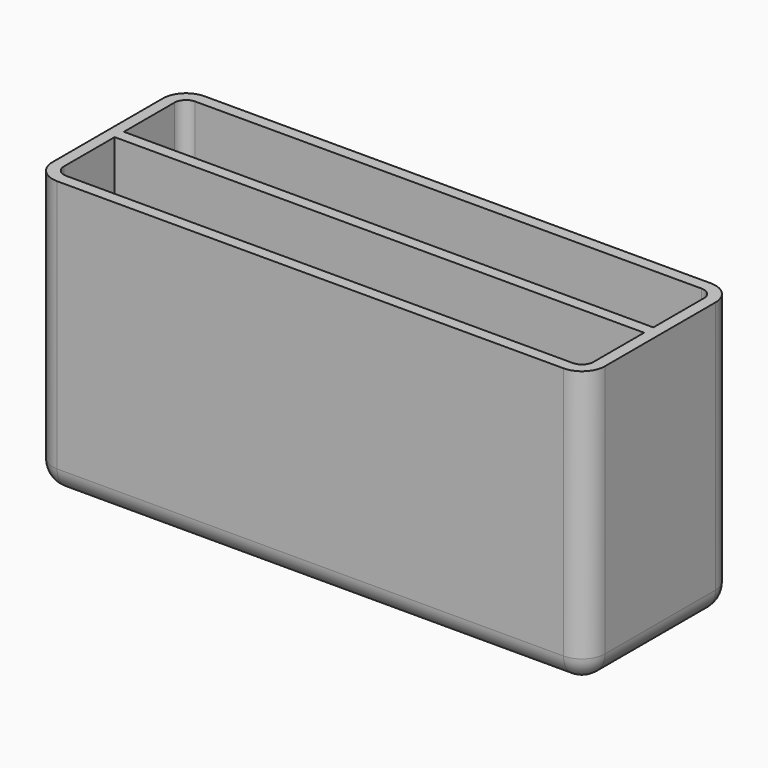
from build123d import *

# Parameters (mm, degrees)
SKETCH_W     = 1200
SKETCH_H     = 400
PAD_DEPTH    = 300
FILLET_R     = 50
THICKNESS_T  = -25
SKETCH001_W  = 1150
SKETCH001_H  = 25
PAD001_DEPTH = 575


with BuildPart() as part:
    # Sketch → Pad (new body, symmetric)
    with BuildSketch(Plane.XY):
        Rectangle(SKETCH_W, SKETCH_H)
    extrude(amount=PAD_DEPTH, both=True)

    # Fillet
    fillet_edges = [part.edges().sort_by_distance(p)[0] for p in [
        (600, 200, 0),
        (600, -200, 0),
        (-600, 0, -300),
        (0, -200, -300),
        (600, 0, -300),
        (0, 200, -300),
        (-600, -200, 0),
        (-600, 200, 0),
    ]]
    fillet(fillet_edges, radius=FILLET_R)

    # Thickness
    thickness_openings = [part.faces().sort_by_distance(p)[0] for p in [
        (0, 0, 300),
    ]]
    offset(amount=THICKNESS_T, openings=thickness_openings)

    # Sketch001 (on Face18 of Thickness) → Pad001 (join)
    with BuildSketch(Plane.XY.offset(300)):
        Rectangle(SKETCH001_W, SKETCH001_H)
    extrude(amount=-PAD001_DEPTH)


solid = part.part
